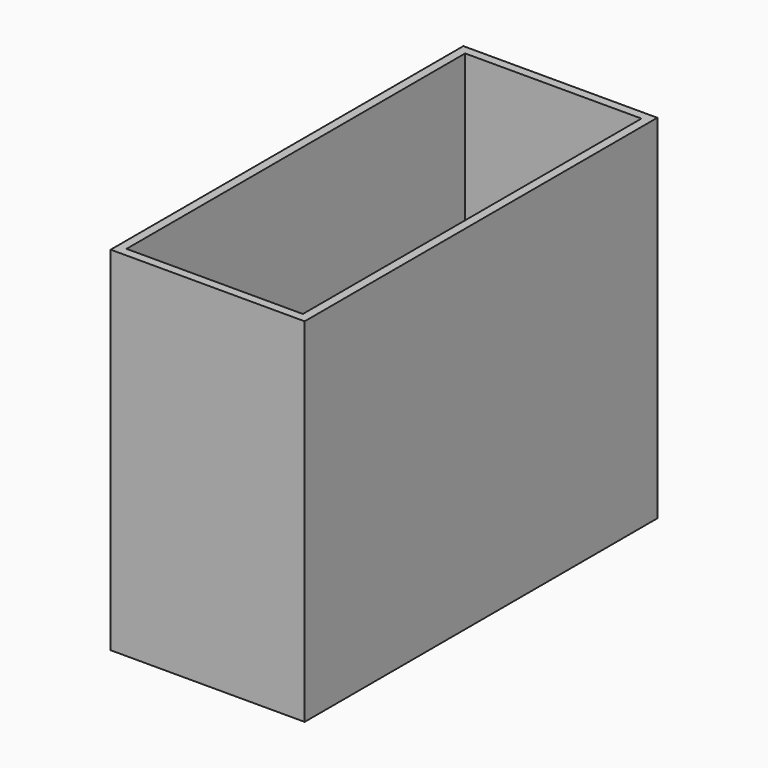
from build123d import *

# Parameters (mm, degrees)
F0_W     = 55.88
F0_H     = 101.6
F1_DEPTH = 127
F2_T     = -2.54


with BuildPart() as f1:
    # F0 (on Front) → F1 (new body)
    with BuildSketch(Plane.XZ):
        with Locations((-27.94, 50.8)):
            Rectangle(F0_W, F0_H)
    extrude(amount=F1_DEPTH)

    # F2
    f2_openings = [f1.faces().sort_by_distance(p)[0] for p in [
        (-27.94, -63.5, 101.6),
        (-27.94, -63.5, 0),
    ]]
    offset(amount=F2_T, openings=f2_openings)


solid = f1.part
